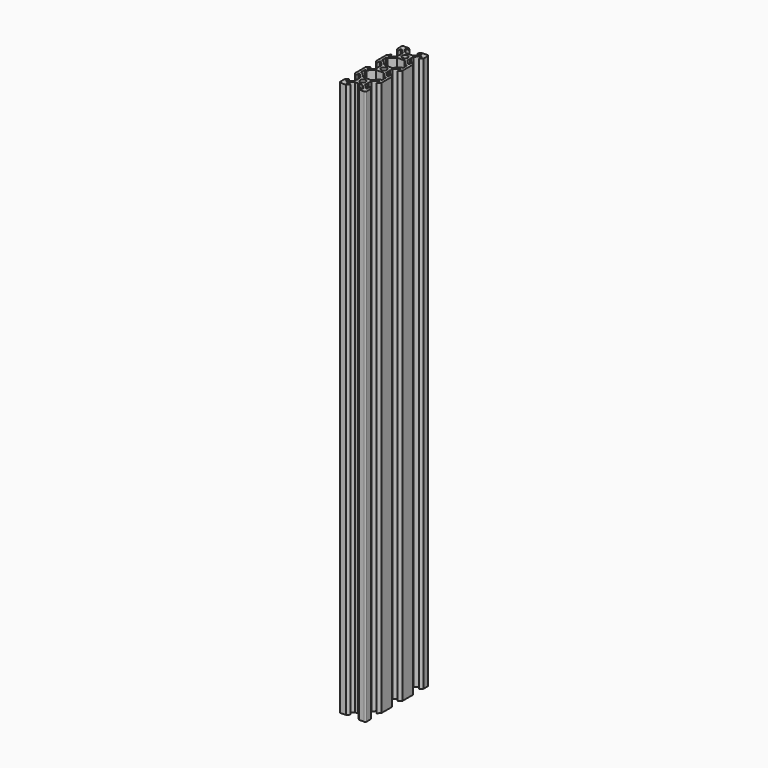
from build123d import *

# Parameters (mm, degrees)
F0_R     = 2.1
F1_DEPTH = 421


with BuildPart() as f1:
    # F0 (on Top) → F1 (new body)
    with BuildSketch(Plane.XY):
        with BuildLine():
            Line((-8, -3), (-10, -5))
            Line((-10, -5), (-10, -15))
            Line((-10, -15), (-8, -17))
            Line((-8, -17), (-8, -14))
            Line((-8, -14), (-7.06066, -14))
            Line((-7.06066, -14), (-4, -17.06066))
            Line((-4, -17.06066), (-4, -19.480385))
            Line((-4, -19.480385), (-3.7, -20))
            Line((-3.7, -20), (-4, -20.519615))
            Line((-4, -20.519615), (-4, -22.93934))
            Line((-4, -22.93934), (-7.06066, -26))
            Line((-7.06066, -26), (-8, -26))
            Line((-8, -26), (-8, -23))
            Line((-8, -23), (-10, -25))
            Line((-10, -25), (-10, -29))
            ThreePointArc((-10, -29), (-9.707107, -29.707107), (-9, -30))
            Line((-9, -30), (-5, -30))
            Line((-5, -30), (-3, -28))
            Line((-3, -28), (-6, -28))
            Line((-6, -28), (-6, -27.06066))
            Line((-6, -27.06066), (-2.93934, -24))
            Line((-2.93934, -24), (-0.519615, -24))
            Line((-0.519615, -24), (0, -23.7))
            Line((0, -23.7), (0.519615, -24))
            Line((0.519615, -24), (2.93934, -24))
            Line((2.93934, -24), (6, -27.06066))
            Line((6, -27.06066), (6, -28))
            Line((6, -28), (3, -28))
            Line((3, -28), (5, -30))
            Line((5, -30), (9, -30))
            ThreePointArc((9, -30), (9.707107, -29.707107), (10, -29))
            Line((10, -29), (10, -25))
            Line((10, -25), (8, -23))
            Line((8, -23), (8, -26))
            Line((8, -26), (7.06066, -26))
            Line((7.06066, -26), (4, -22.93934))
            Line((4, -22.93934), (4, -20.519615))
            Line((4, -20.519615), (3.7, -20))
            Line((3.7, -20), (4, -19.480385))
            Line((4, -19.480385), (4, -17.06066))
            Line((4, -17.06066), (7.06066, -14))
            Line((7.06066, -14), (8, -14))
            Line((8, -14), (8, -17))
            Line((8, -17), (10, -15))
            Line((10, -15), (10, -5))
            Line((10, -5), (8, -3))
            Line((8, -3), (8, -6))
            Line((8, -6), (7.06066, -6))
            Line((7.06066, -6), (4, -2.93934))
            Line((4, -2.93934), (4, -0.519615))
            Line((4, -0.519615), (3.7, 0))
            Line((3.7, 0), (4, 0.519615))
            Line((4, 0.519615), (4, 2.93934))
            Line((4, 2.93934), (7.06066, 6))
            Line((7.06066, 6), (8, 6))
            Line((8, 6), (8, 3))
            Line((8, 3), (10, 5))
            Line((10, 5), (10, 15))
            Line((10, 15), (8, 17))
            Line((8, 17), (8, 14))
            Line((8, 14), (7.06066, 14))
            Line((7.06066, 14), (4, 17.06066))
            Line((4, 17.06066), (4, 19.480385))
            Line((4, 19.480385), (3.7, 20))
            Line((3.7, 20), (4, 20.519615))
            Line((4, 20.519615), (4, 22.93934))
            Line((4, 22.93934), (7.06066, 26))
            Line((7.06066, 26), (8, 26))
            Line((8, 26), (8, 23))
            Line((8, 23), (10, 25))
            Line((10, 25), (10, 29))
            ThreePointArc((10, 29), (9.707107, 29.707107), (9, 30))
            Line((9, 30), (5, 30))
            Line((5, 30), (3, 28))
            Line((3, 28), (6, 28))
            Line((6, 28), (6, 27.06066))
            Line((6, 27.06066), (2.93934, 24))
            Line((2.93934, 24), (0.519615, 24))
            Line((0.519615, 24), (0, 23.7))
            Line((0, 23.7), (-0.519615, 24))
            Line((-0.519615, 24), (-2.93934, 24))
            Line((-2.93934, 24), (-6, 27.06066))
            Line((-6, 27.06066), (-6, 28))
            Line((-6, 28), (-3, 28))
            Line((-3, 28), (-5, 30))
            Line((-5, 30), (-9, 30))
            ThreePointArc((-9, 30), (-9.707107, 29.707107), (-10, 29))
            Line((-10, 29), (-10, 25))
            Line((-10, 25), (-8, 23))
            Line((-8, 23), (-8, 26))
            Line((-8, 26), (-7.06066, 26))
            Line((-7.06066, 26), (-4, 22.93934))
            Line((-4, 22.93934), (-4, 20.519615))
            Line((-4, 20.519615), (-3.7, 20))
            Line((-3.7, 20), (-4, 19.480385))
            Line((-4, 19.480385), (-4, 17.06066))
            Line((-4, 17.06066), (-7.06066, 14))
            Line((-7.06066, 14), (-8, 14))
            Line((-8, 14), (-8, 17))
            Line((-8, 17), (-10, 15))
            Line((-10, 15), (-10, 5))
            Line((-10, 5), (-8, 3))
            Line((-8, 3), (-8, 6))
            Line((-8, 6), (-7.06066, 6))
            Line((-7.06066, 6), (-4, 2.93934))
            Line((-4, 2.93934), (-4, 0.519615))
            Line((-4, 0.519615), (-3.7, 0))
            Line((-3.7, 0), (-4, -0.519615))
            Line((-4, -0.519615), (-4, -2.93934))
            Line((-4, -2.93934), (-7.06066, -6))
            Line((-7.06066, -6), (-8, -6))
            Line((-8, -6), (-8, -3))
        make_face()
        with Locations((0, -20)):
            Circle(F0_R, mode=Mode.SUBTRACT)
        Polygon((-8, -8), (-6.93934, -8), (-2.93934, -4), (2.93934, -4), (6.93934, -8), (8, -8), (8, -12), (6.93934, -12), (2.93934, -16), (-2.93934, -16), (-6.93934, -12), (-8, -12), align=None, mode=Mode.SUBTRACT)
        Circle(F0_R, mode=Mode.SUBTRACT)
        Polygon((-8, 8), (-8, 12), (-6.93934, 12), (-2.93934, 16), (2.93934, 16), (6.93934, 12), (8, 12), (8, 8), (6.93934, 8), (2.93934, 4), (-2.93934, 4), (-6.93934, 8), align=None, mode=Mode.SUBTRACT)
        with Locations((0, 20)):
            Circle(F0_R, mode=Mode.SUBTRACT)
    extrude(amount=F1_DEPTH)


solid = f1.part
